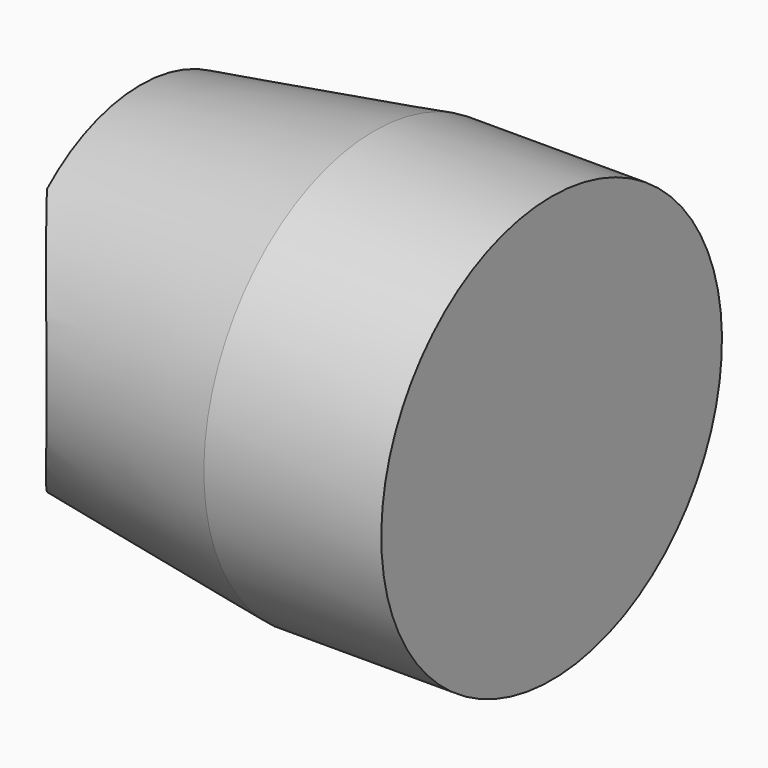
from build123d import *

# Parameters (mm, degrees)
SKETCH001_R = 3.05


with BuildPart() as part:
    # Sketch → Revolution (revolve)
    with BuildSketch(Plane.XZ):
        Polygon((0, 0), (0, 3), (3.95, 3.6), (6.95, 3.6), (6.95, 0), align=None)
    revolve(axis=Axis((0, 0, 0), (1, 0, 0)))

    # Sketch001 → Groove (revolve, cut)
    with BuildSketch(Plane.XZ):
        with Locations((-2, 0)):
            Circle(SKETCH001_R)
    revolve(axis=Axis((-37, 0, 0), (0, 0, 1)), mode=Mode.SUBTRACT)


solid = part.part
